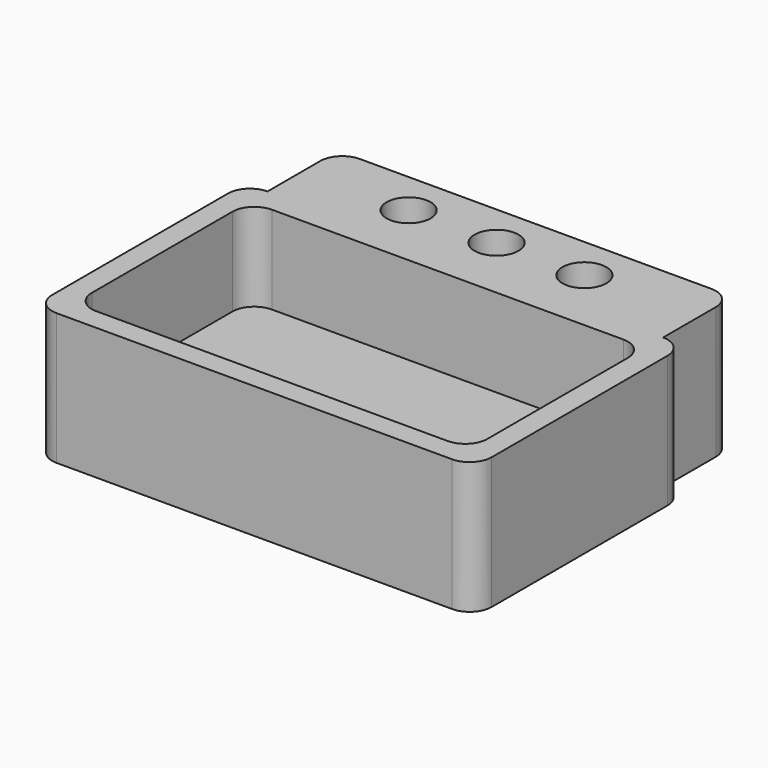
from build123d import *

# Parameters (mm, degrees)
F0_R     = 6.35
F1_DEPTH = 38.1
F2_DEPTH = 25.4
F3_DEPTH = 12.7


with BuildPart() as f1:
    # F0 (on Top) → F1 (new body)
    with BuildSketch(Plane.XY):
        with BuildLine():
            ThreePointArc((-63.5, -31.75), (-61.6401280605, -36.2401280605), (-57.15, -38.1))
            Line((-57.15, -38.1), (57.15, -38.1))
            ThreePointArc((57.15, -38.1), (61.6401280605, -36.2401280605), (63.5, -31.75))
            Line((63.5, -31.75), (63.5, 31.75))
            ThreePointArc((63.5, 31.75), (61.6401280605, 36.2401280605), (57.15, 38.1))
            Line((57.15, 38.1), (-57.15, 38.1))
            ThreePointArc((-57.15, 38.1), (-61.6401280605, 36.2401280605), (-63.5, 31.75))
            Line((-63.5, 31.75), (-63.5, -31.75))
        make_face()
        with BuildLine():
            ThreePointArc((-57.15, 25.4), (-55.2901280605, 29.8901280605), (-50.8, 31.75))
            Line((-50.8, 31.75), (50.8, 31.75))
            ThreePointArc((50.8, 31.75), (55.2901280605, 29.8901280605), (57.15, 25.4))
            Line((57.15, 25.4), (57.15, -25.4))
            ThreePointArc((57.15, -25.4), (55.2901280605, -29.8901280605), (50.8, -31.75))
            Line((50.8, -31.75), (-50.8, -31.75))
            ThreePointArc((-50.8, -31.75), (-55.2901280605, -29.8901280605), (-57.15, -25.4))
            Line((-57.15, -25.4), (-57.15, 25.4))
        make_face(mode=Mode.SUBTRACT)
        with BuildLine():
            Line((50.8, 31.75), (-50.8, 31.75))
            ThreePointArc((-50.8, 31.75), (-55.2901280605, 29.8901280605), (-57.15, 25.4))
            Line((-57.15, 25.4), (-57.15, -25.4))
            ThreePointArc((-57.15, -25.4), (-55.2901280605, -29.8901280605), (-50.8, -31.75))
            Line((-50.8, -31.75), (50.8, -31.75))
            ThreePointArc((50.8, -31.75), (55.2901280605, -29.8901280605), (57.15, -25.4))
            Line((57.15, -25.4), (57.15, 25.4))
            ThreePointArc((57.15, 25.4), (55.2901280605, 29.8901280605), (50.8, 31.75))
        make_face()
        with BuildLine():
            Line((-57.15, 57.15), (-57.15, 38.1))
            Line((-57.15, 38.1), (57.15, 38.1))
            Line((57.15, 38.1), (57.15, 57.15))
            ThreePointArc((57.15, 57.15), (55.2901280605, 61.6401280605), (50.8, 63.5))
            Line((50.8, 63.5), (-50.8, 63.5))
            ThreePointArc((-50.8, 63.5), (-55.2901280605, 61.6401280605), (-57.15, 57.15))
        make_face()
        with Locations((-26.5334639698, 50.8)):
            Circle(F0_R, mode=Mode.SUBTRACT)
        with Locations((-1.1334639698, 50.8)):
            Circle(F0_R, mode=Mode.SUBTRACT)
        with Locations((24.2665360302, 50.8)):
            Circle(F0_R, mode=Mode.SUBTRACT)
        with Locations((-26.5334639698, 50.8)):
            Circle(F0_R)
        with Locations((-1.1334639698, 50.8)):
            Circle(F0_R)
        with Locations((24.2665360302, 50.8)):
            Circle(F0_R)
    extrude(amount=-F1_DEPTH)

    # F0 (on Top) → F2 (cut)
    with BuildSketch(Plane.XY):
        with BuildLine():
            Line((50.8, 31.75), (-50.8, 31.75))
            ThreePointArc((-50.8, 31.75), (-55.2901280605, 29.8901280605), (-57.15, 25.4))
            Line((-57.15, 25.4), (-57.15, -25.4))
            ThreePointArc((-57.15, -25.4), (-55.2901280605, -29.8901280605), (-50.8, -31.75))
            Line((-50.8, -31.75), (50.8, -31.75))
            ThreePointArc((50.8, -31.75), (55.2901280605, -29.8901280605), (57.15, -25.4))
            Line((57.15, -25.4), (57.15, 25.4))
            ThreePointArc((57.15, 25.4), (55.2901280605, 29.8901280605), (50.8, 31.75))
        make_face()
    extrude(amount=-F2_DEPTH, mode=Mode.SUBTRACT)

    # F0 (on Top) → F3 (cut)
    with BuildSketch(Plane.XY):
        with Locations((-26.5334639698, 50.8)):
            Circle(F0_R)
        with Locations((-1.1334639698, 50.8)):
            Circle(F0_R)
        with Locations((24.2665360302, 50.8)):
            Circle(F0_R)
    extrude(amount=-F3_DEPTH, mode=Mode.SUBTRACT)


solid = f1.part
